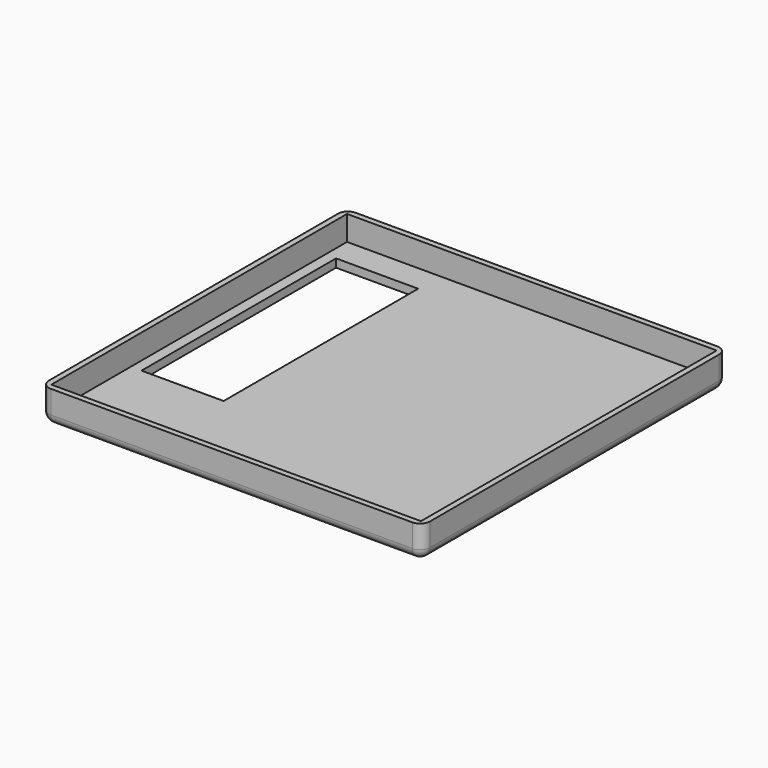
from build123d import *

# Parameters (mm, degrees)
F0_W     = 116
F0_H     = 116
F0_W_2   = 25
F0_H_2   = 74
F1_DEPTH = 10
F2_W     = 112.5
F2_H     = 112.5
F2_W_2   = 25
F2_H_2   = 74
F3_DEPTH = 7.5
F4_R     = 3


with BuildPart() as f1:
    # F0 (on Top) → F1 (new body)
    with BuildSketch(Plane.XY):
        Rectangle(F0_W, F0_H)
        with Locations((-40.5, 11)):
            Rectangle(F0_W_2, F0_H_2, mode=Mode.SUBTRACT)
    extrude(amount=F1_DEPTH)

    # F2 (on face) → F3 (cut)
    with BuildSketch(Plane.XY.offset(10)):
        Rectangle(F2_W, F2_H)
        with Locations((-40.5, 11)):
            Rectangle(F2_W_2, F2_H_2, mode=Mode.SUBTRACT)
    extrude(amount=-F3_DEPTH, mode=Mode.SUBTRACT)

    # F4
    f4_edges = [f1.edges().sort_by_distance(p)[0] for p in [
        (58, 58, 5),
        (58, -58, 5),
        (-58, 58, 5),
        (-58, -58, 5),
        (-58, 0, 0),
        (0, -58, 0),
        (0, 58, 0),
        (58, 0, 0),
    ]]
    fillet(f4_edges, radius=F4_R)


solid = f1.part
